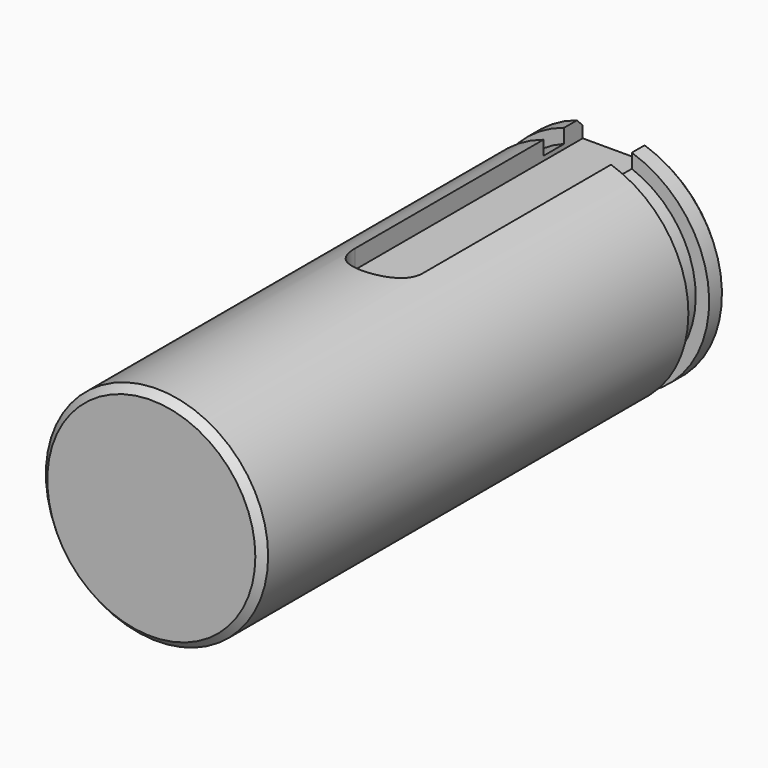
from build123d import *

# Parameters (mm, degrees)
F0_R     = 7.9375
F1_DEPTH = 41.529
F4_DEPTH = 3.175
F5_W     = 1.8542
F5_H     = 3.048
F7_SIZE  = 0.508


with BuildPart() as f1:
    # F0 (on Front) → F1 (new body)
    with BuildSketch(Plane.XZ):
        Circle(F0_R)
    extrude(amount=F1_DEPTH)

    # F3 (on offset) → F4 (cut)
    with BuildSketch(Plane.XY.offset(9.398)):
        with BuildLine():
            Line((2.413, -20.32), (2.413, 0))
            Line((2.413, 0), (-2.413, 0))
            Line((-2.413, 0), (-2.413, -20.32))
            ThreePointArc((-2.413, -20.32), (0, -22.733), (2.413, -20.32))
        make_face()
    extrude(amount=-F4_DEPTH, mode=Mode.SUBTRACT)

    # F5 (on Right) → F6 (revolve, cut)
    with BuildSketch(Plane.YZ):
        with Locations((-2.5781, 8.500982)):
            Rectangle(F5_W, F5_H)
    revolve(axis=Axis((0, 0, 0), (0, -1, 0)), mode=Mode.SUBTRACT)

    # F7
    f7_edges = [f1.edges().sort_by_distance(p)[0] for p in [
        (-7.9375, -41.529, 0),
        (0, 0, -7.9375),
    ]]
    chamfer(f7_edges, length=F7_SIZE)


solid = f1.part
